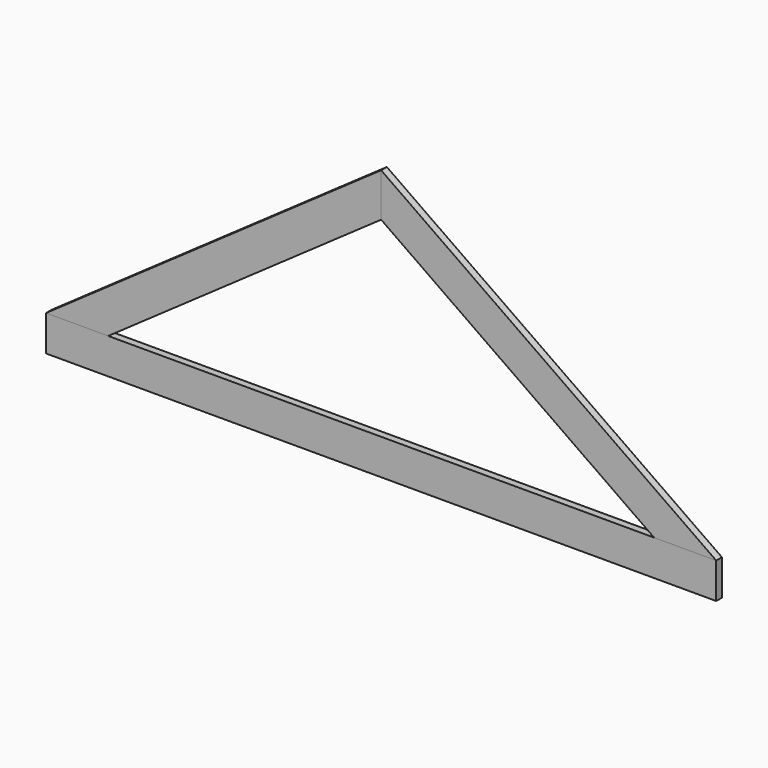
from build123d import *

# Parameters (mm, degrees)
F1_DEPTH = 50.8
F2_DEPTH = 50.8
F3_DEPTH = 50.8


with BuildPart() as f1:
    # F0 (on Front) → F1 (new body)
    with BuildSketch(Plane.XZ):
        Polygon((0, 254), (0, 0), (4775.2, 0), (4775.2, 254), (4332.364514, 254), (442.835486, 254), align=None)
    extrude(amount=-F1_DEPTH)


with BuildPart() as f2:
    # F0 (on Front) → F2 (new body)
    with BuildSketch(Plane.XZ):
        Polygon((2387.6, 1925.815518), (0, 254), (442.835486, 254), (2387.6, 1615.738773), align=None)
    extrude(amount=-F2_DEPTH)


with BuildPart() as f3:
    # F0 (on Front) → F3 (new body)
    with BuildSketch(Plane.XZ):
        Polygon((4332.364514, 254), (4775.2, 254), (2387.6, 1925.815518), (2387.6, 1615.738773), align=None)
    extrude(amount=-F3_DEPTH)


solid = Compound([f1.part, f2.part, f3.part])
